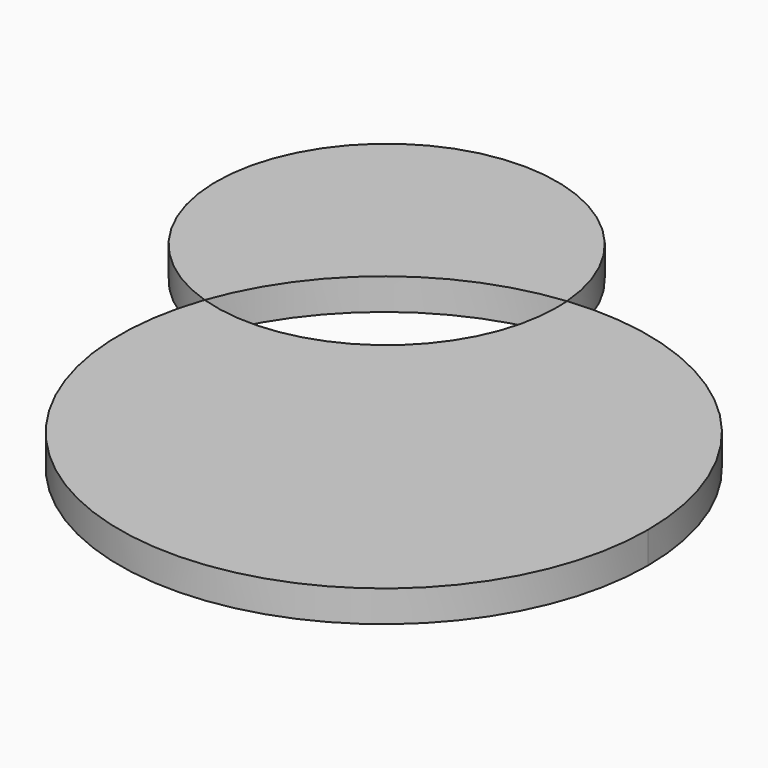
from build123d import *

# Parameters (mm, degrees)
F1_DEPTH = 4.99999


with BuildPart() as f1:
    # F0 (on Top) → F1 (new body)
    with BuildSketch(Plane.XY):
        with BuildLine():
            ThreePointArc((16.427183, 28.039752), (16.487414, 26.998232), (16.5075, 25.955165))
            ThreePointArc((16.5075, 25.955165), (5.361266, 4.052793), (-18.905908, 0.172495))
            ThreePointArc((-18.905908, 0.172495), (13.664463, -55.129033), (62.709952, -13.733041))
            ThreePointArc((62.709952, -13.733041), (48.852938, 17.440108), (16.427183, 28.039752))
        make_face()
        with BuildLine():
            ThreePointArc((-18.905908, 0.172495), (-5.287315, 19.238551), (16.427183, 28.039752))
            ThreePointArc((16.427183, 28.039752), (-27.362133, 47.227368), (-18.905908, 0.172495))
        make_face()
    extrude(amount=F1_DEPTH)


solid = f1.part
